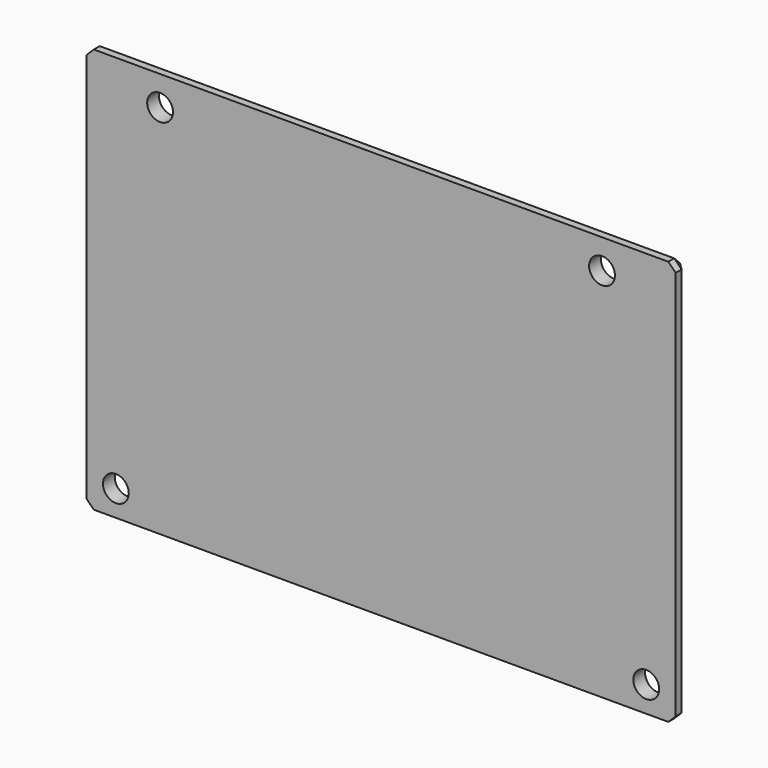
from build123d import *

# Parameters (mm, degrees)
SKETCH045_W     = 80
SKETCH045_H     = 55
PAD012_DEPTH    = 2
SKETCH046_R     = 1.75
POCKET037_DEPTH = 5
CHAMFER_SIZE    = 1


with BuildPart() as part:
    # Sketch045 → Pad012 (new body)
    with BuildSketch(Plane.XZ):
        with Locations((0, 27.5)):
            Rectangle(SKETCH045_W, SKETCH045_H)
    extrude(amount=PAD012_DEPTH)

    # Sketch046 (on Face5 of Pad012) → Pocket037 (cut)
    with BuildSketch(Plane(origin=(0, 0, 0), x_dir=(1, 0, 0), z_dir=(0, 1, 0))):
        with Locations((-36, -3.5)):
            Circle(SKETCH046_R)
        with Locations((-30, -51)):
            Circle(SKETCH046_R)
    pocket037 = extrude(amount=-POCKET037_DEPTH, mode=Mode.SUBTRACT)

    # Mirrored001: Pocket037 across Sketch046 V_Axis
    add(pocket037.mirror(Plane.YZ), mode=Mode.SUBTRACT)

    # Chamfer
    chamfer_edges = [part.edges().sort_by_distance(p)[0] for p in [
        (40, 0, 27.5),
        (0, 0, 55),
        (0, 0, 0),
        (-40, 0, 27.5),
        (40, -1, 55),
        (-40, -1, 55),
        (-40, -1, 0),
        (40, -1, 0),
    ]]
    chamfer(chamfer_edges, length=CHAMFER_SIZE)


with BuildPart() as part_1:
    # Body004 placement: moved
    add(part.part.moved(Location((0, 42, 0))))


solid = part_1.part
